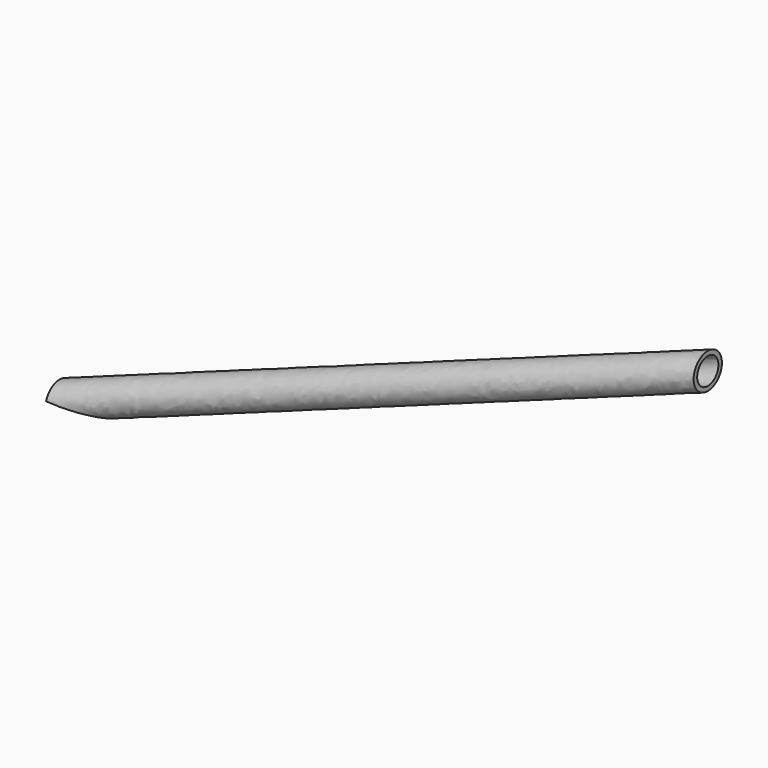
from build123d import *

# Parameters (mm, degrees)
F1_R     = 25.4
F1_R_2   = 19.05
F3_W     = 50.8
F3_H     = 33.02
F4_DEPTH = 930.86051


with BuildPart() as f2:
    # F2: sweep along a path in F0
    with BuildLine(Plane.XZ) as f2_path:
        Line((0, 0), (930.85951, 338.805154))
    # F1 (on Right) → F2 (sweep)
    with BuildSketch(Plane.YZ):
        Circle(F1_R)
        Circle(F1_R_2, mode=Mode.SUBTRACT)
    sweep(path=f2_path.line)

    # F3 (on face) → F4 (cut, through all)
    with BuildSketch(Plane(origin=(0, 0, 0), x_dir=(0, -1, 0), z_dir=(-1, 0, 0))):
        with Locations((0, -8.89)):
            Rectangle(F3_W, F3_H)
    extrude(amount=-F4_DEPTH, mode=Mode.SUBTRACT)


solid = f2.part
